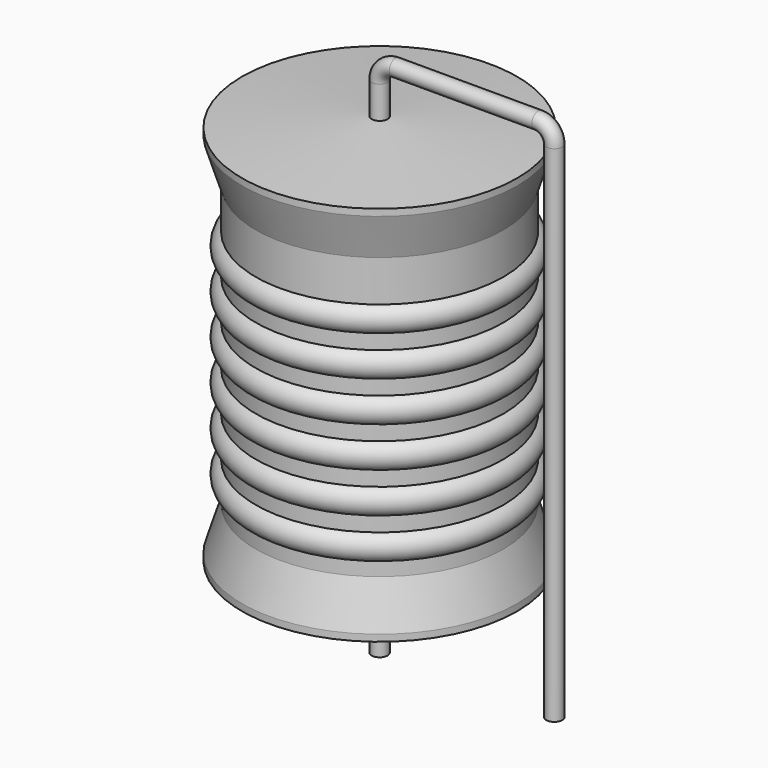
from build123d import *

# Parameters (mm, degrees)
SKETCH_R = 0.35


with BuildPart() as sweep_body:
    # Sweep: sweep along a path in Sketch001
    with BuildLine(Plane.XZ) as sweep_path:
        Line((0, -3), (0, 19))
        ThreePointArc((0, 19), (0.205023, 19.494972), (0.699993, 19.7))
        Line((0.699993, 19.7), (6.92, 19.7))
        ThreePointArc((6.92, 19.7), (7.414975, 19.494975), (7.62, 19))
        Line((7.62, 19), (7.62, -3))
    # Sketch → Sweep (sweep)
    with BuildSketch(Plane.XY.offset(-2)):
        Circle(SKETCH_R)
    sweep(path=sweep_path.line)


with BuildPart() as revolution:
    # Sketch002 → Revolution (revolve)
    with BuildSketch(Plane.XZ):
        Polygon((0, 0.1), (0, 17.6), (0.2625, 17.6), (6, 17.1625), (6, 16.87), (5.4, 14.975), (5.4, 2.725), (6, 0.83), (6, 0.5375), (0.2625, 0.1), align=None)
    revolve(axis=Axis((0, 0, 0), (0, 0, 1)))


with BuildPart() as revolution001:
    # Sketch003 → Revolution001 (revolve)
    with BuildSketch(Plane.XZ):
        with BuildLine():
            Line((4.8, 13.775), (4.8, 2.725))
            Line((4.8, 2.725), (5.16, 2.725))
            Line((5.16, 2.725), (5.16, 3.275))
            ThreePointArc((5.16, 3.275), (5.76, 3.875), (5.16, 4.475))
            Line((5.16, 4.475), (5.16, 5.025))
            ThreePointArc((5.16, 5.025), (5.76, 5.625), (5.16, 6.225))
            Line((5.16, 6.225), (5.16, 6.775))
            ThreePointArc((5.16, 6.775), (5.76, 7.375), (5.16, 7.975))
            Line((5.16, 7.975), (5.16, 8.525))
            ThreePointArc((5.16, 8.525), (5.76, 9.125), (5.16, 9.725))
            Line((5.16, 9.725), (5.16, 10.275))
            ThreePointArc((5.16, 10.275), (5.76, 10.875), (5.16, 11.475))
            Line((5.16, 11.475), (5.16, 12.025))
            ThreePointArc((5.16, 12.025), (5.76, 12.625), (5.16, 13.225))
            Line((5.16, 13.775), (5.16, 13.225))
            Line((4.8, 13.775), (5.16, 13.775))
        make_face()
    revolve(axis=Axis((0, 0, 0), (0, 0, 1)))


solid = Compound([sweep_body.part, revolution.part, revolution001.part])
